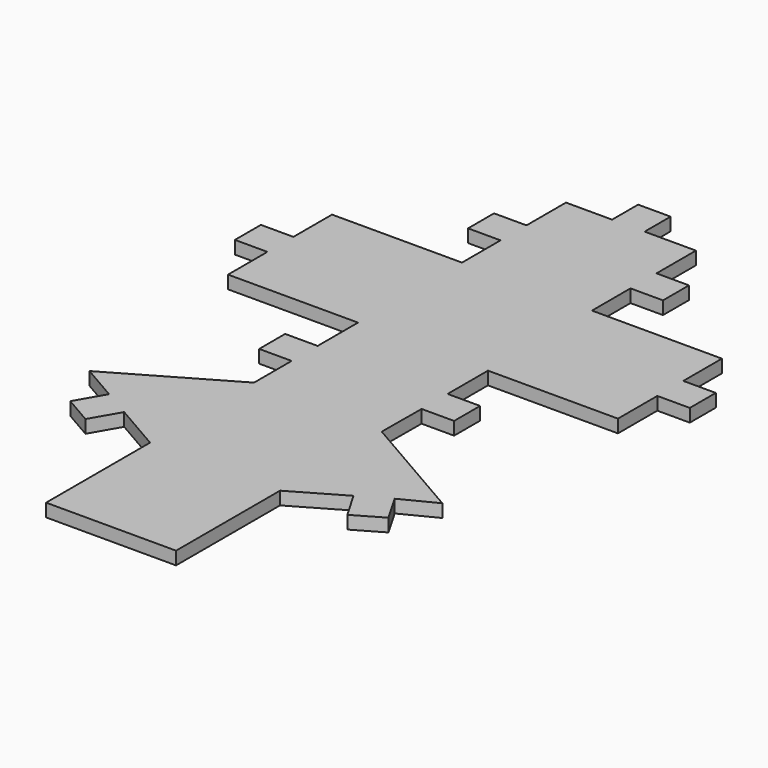
from build123d import *

# Parameters (mm, degrees)
F1_DEPTH = 2.54


with BuildPart() as f1:
    # F0 (on Top) → F1 (new body)
    with BuildSketch(Plane.XY):
        Polygon((25.4, 34.054193), (0, 34.054193), (0, 43.469999), (6.35, 43.469999), (6.35, 49.819999), (0, 49.819999), (0, 59.454193), (-10.03, 59.454193), (-10.03, 65.804193), (-16.38, 65.804193), (-16.38, 59.454193), (-25.4, 59.454193), (-25.4, 49.819999), (-31.75, 49.819999), (-31.75, 43.469999), (-25.4, 43.469999), (-25.4, 34.054193), (-50.8, 34.054193), (-50.8, 24.619999), (-57.15, 24.619999), (-57.15, 18.269999), (-50.8, 18.269999), (-50.8, 8.654193), (-25.4, 8.654193), (-25.4, -1.210003), (-31.75, -1.210003), (-31.75, -7.560003), (-25.4, -7.560003), (-25.4, -16.745806), (-47.397045, -29.445806), (-40.293942, -33.546785), (-43.468942, -39.046046), (-37.96968, -42.221046), (-34.79468, -36.721785), (-25.4, -42.145806), (-25.4, -67.545806), (0, -67.545806), (0, -42.145806), (9.826851, -36.472271), (13.001851, -41.971532), (18.501113, -38.796532), (15.326113, -33.297271), (21.937953, -29.927548), (-0.059092, -17.227548), (0, -7.560003), (6.35, -7.560003), (6.35, -1.210003), (0, -1.210003), (0, 8.654193), (25.4, 8.654193), (25.4, 18.269999), (31.75, 18.269999), (31.75, 24.619999), (25.4, 24.619999), align=None)
    extrude(amount=F1_DEPTH)


solid = f1.part
